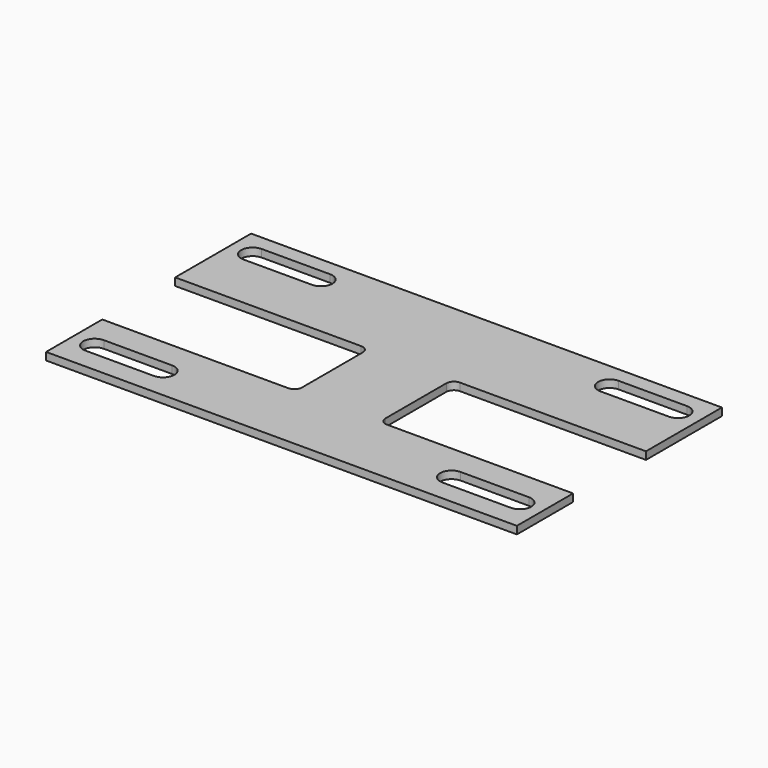
from build123d import *

# Parameters (mm, degrees)
F1_DEPTH = 3.175


with BuildPart() as f1:
    # F0 (on Top) → F1 (new body)
    with BuildSketch(Plane.XY):
        with BuildLine():
            Line((-98.425, -24.209375), (-98.425, -53.578125))
            Line((-98.425, -53.578125), (98.425, -53.578125))
            Line((98.425, -53.578125), (98.425, -24.209375))
            Line((98.425, -24.209375), (20.6375, -24.209375))
            ThreePointArc((20.6375, -24.209375), (18.392436, -23.279439), (17.4625, -21.034375))
            Line((17.4625, -21.034375), (17.4625, 10.715625))
            ThreePointArc((17.4625, 10.715625), (18.392436, 12.960689), (20.6375, 13.890625))
            Line((20.6375, 13.890625), (98.425, 13.890625))
            Line((98.425, 13.890625), (98.425, 53.578125))
            Line((98.425, 53.578125), (-98.425, 53.578125))
            Line((-98.425, 53.578125), (-98.425, 13.890625))
            Line((-98.425, 13.890625), (-20.6375, 13.890625))
            ThreePointArc((-20.6375, 13.890625), (-18.392436, 12.960689), (-17.4625, 10.715625))
            Line((-17.4625, 10.715625), (-17.4625, -21.034375))
            ThreePointArc((-17.4625, -21.034375), (-18.392436, -23.279439), (-20.6375, -24.209375))
            Line((-20.6375, -24.209375), (-98.425, -24.209375))
        make_face()
        with BuildLine():
            Line((-60.325, -44.846875), (-88.9, -44.846875))
            ThreePointArc((-88.9, -44.846875), (-93.6625, -40.084375), (-88.9, -35.321875))
            Line((-88.9, -35.321875), (-60.325, -35.321875))
            ThreePointArc((-60.325, -35.321875), (-55.5625, -40.084375), (-60.325, -44.846875))
        make_face(mode=Mode.SUBTRACT)
        with BuildLine():
            ThreePointArc((88.9, -35.321875), (93.6625, -40.084375), (88.9, -44.846875))
            Line((88.9, -44.846875), (60.325, -44.846875))
            ThreePointArc((60.325, -44.846875), (55.5625, -40.084375), (60.325, -35.321875))
            Line((60.325, -35.321875), (88.9, -35.321875))
        make_face(mode=Mode.SUBTRACT)
        with BuildLine():
            Line((-60.325, 37.703125), (-88.9, 37.703125))
            ThreePointArc((-88.9, 37.703125), (-93.6625, 42.465625), (-88.9, 47.228125))
            Line((-88.9, 47.228125), (-60.325, 47.228125))
            ThreePointArc((-60.325, 47.228125), (-55.5625, 42.465625), (-60.325, 37.703125))
        make_face(mode=Mode.SUBTRACT)
        with BuildLine():
            ThreePointArc((88.9, 47.228125), (93.6625, 42.465625), (88.9, 37.703125))
            Line((88.9, 37.703125), (60.325, 37.703125))
            ThreePointArc((60.325, 37.703125), (55.5625, 42.465625), (60.325, 47.228125))
            Line((60.325, 47.228125), (88.9, 47.228125))
        make_face(mode=Mode.SUBTRACT)
    extrude(amount=F1_DEPTH)


solid = f1.part
